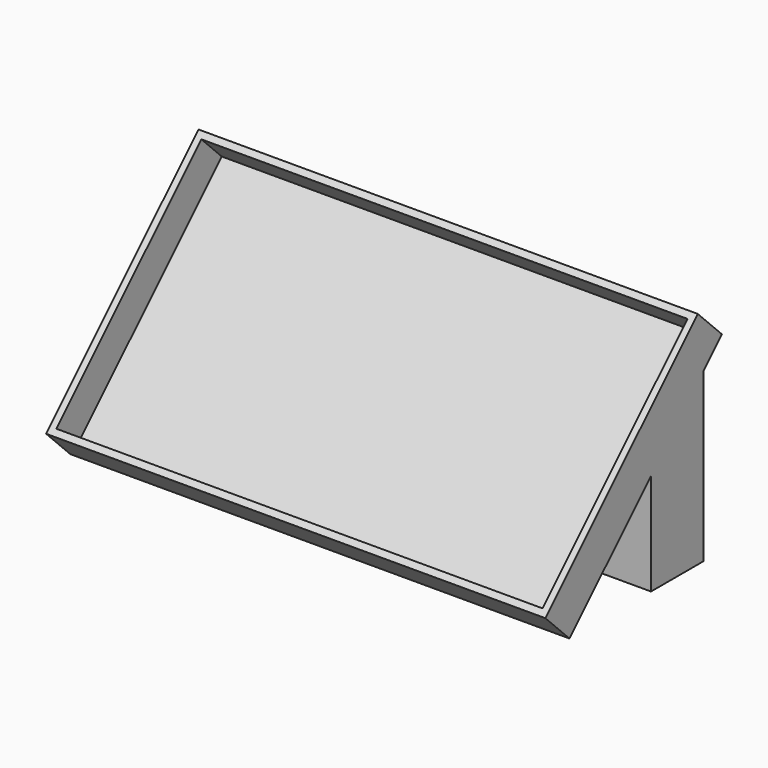
from build123d import *

# Parameters (mm, degrees)
F1_DEPTH = 152
F2_T     = -2
F4_DEPTH = 152


with BuildPart() as f1:
    # F0 (on Right) → F1 (new body)
    with BuildSketch(Plane.YZ):
        Polygon((24.395184, 33.587572), (-33.587572, -24.395184), (-24.395184, -33.587572), (33.587572, 24.395184), align=None)
    extrude(amount=F1_DEPTH)

    # F2
    f2_openings = [f1.faces().sort_by_distance(p)[0] for p in [
        (76, -4.596194, 4.596194),
    ]]
    offset(amount=F2_T, openings=f2_openings)

    # F3 (on Right) → F4 (join)
    with BuildSketch(Plane.YZ):
        Polygon((7.990418, 0), (6.604816, 0), (6.604816, -33.587572), (26.604816, -33.587572), (26.604816, 0), align=None)
        Polygon((26.604816, 18.73309), (7.990418, 0), (26.604816, 0), align=None)
    extrude(amount=F4_DEPTH)


solid = f1.part
